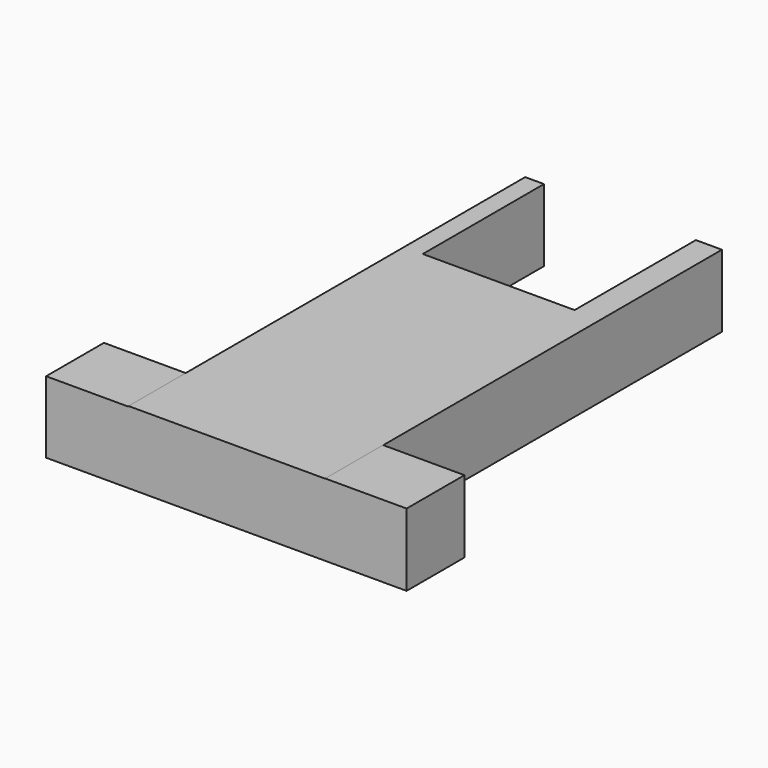
from build123d import *

# Parameters (mm, degrees)
F0_W     = 69.0733827651
F0_H     = 95.5515131354
F1_DEPTH = 25.4
F2_W     = 28.6007858813
F2_H     = 25.4682730883
F2_W_2   = 28.9632454515
F2_H_2   = 25.2022650093
F3_DEPTH = 25.4
F4_W     = 53.2440617681
F4_H     = 25.4
F5_DEPTH = 9.144
F6_W     = 53.2063767314
F6_H     = 25.4
F7_DEPTH = 6.604


with BuildPart() as f1:
    # F0 (on Top) → F1 (new body)
    with BuildSketch(Plane.XY):
        with Locations((0.1439023763, -0.1439042389)):
            Rectangle(F0_W, F0_H)
    extrude(amount=F1_DEPTH)

    # F2 (on face) → F3 (join)
    with BuildSketch(Plane.XZ.offset(47.9196608067)):
        with Locations((48.9809866995, 12.7341365442)):
            Rectangle(F2_W, F2_H)
        with Locations((-48.874411732, 12.6011325046)):
            Rectangle(F2_W_2, F2_H_2)
        Polygon((-34.3927890062, 0), (34.6805937588, 0), (34.6805937588, 25.4), (-34.3927890062, 25.4), (-34.3927890062, 25.2022650093), align=None)
    extrude(amount=F3_DEPTH)

    # F4 (on face) → F5 (join)
    with BuildSketch(Plane.YZ.offset(34.6805937588)):
        with Locations((74.2538832128, 12.7)):
            Rectangle(F4_W, F4_H)
    extrude(amount=-F5_DEPTH)

    # F6 (on face) → F7 (join)
    with BuildSketch(Plane(origin=(-34.3927890062, 0, 0), x_dir=(0, -1, 0), z_dir=(-1, 0, 0))):
        with Locations((-74.2350406945, 12.7)):
            Rectangle(F6_W, F6_H)
    extrude(amount=-F7_DEPTH)


solid = f1.part
